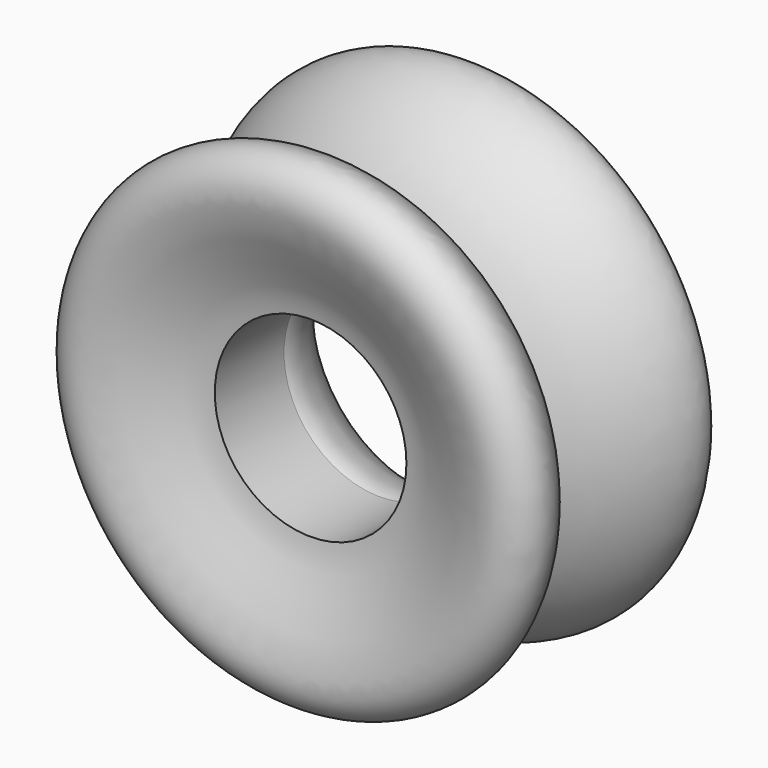
from build123d import *


with BuildPart() as f1:
    # F0 (on Top) → F1 (revolve)
    with BuildSketch(Plane.XY):
        with BuildLine():
            add(Edge.make_bspline(
                [(28.6709028924, 12.0567051346), (40.1041010651, 4.8039181699), (59.423865341, -7.4518069898), (69.0770244192, -27.1627652102), (51.877280759, -44.0756873888), (15.9088266019, -24.2654636441), (6.5697501017, -22.8852907673), (3.1493029684, -22.3798009194)],
                knots=[0, 0, 0, 0, 0.2526352073, 0.4269017802, 0.5962818409, 0.8521377762, 1, 1, 1, 1], degree=3))
            add(Edge.make_bspline(
                [(28.6709028924, 12.0567051346), (139.3127377405, 58.2439321383), (57.0424845881, 65.8619782908), (-25.2277685643, 73.4800244433), (3.1493029684, 14.419949669)],
                knots=[4.1584342826, 4.1584342826, 4.1584342826, 6.735593271, 6.735593271, 9.3127522595, 9.3127522595, 9.3127522595], degree=2, weights=[1, 0.2784854668, 1, 0.2784854668, 1]))
            Line((3.1493029684, 14.419949669), (3.1493029684, -22.3798009194))
        make_face()
    revolve(axis=Axis((-37.587441504, 5.3431671113, 0), (0, -1, 0)))


solid = f1.part
